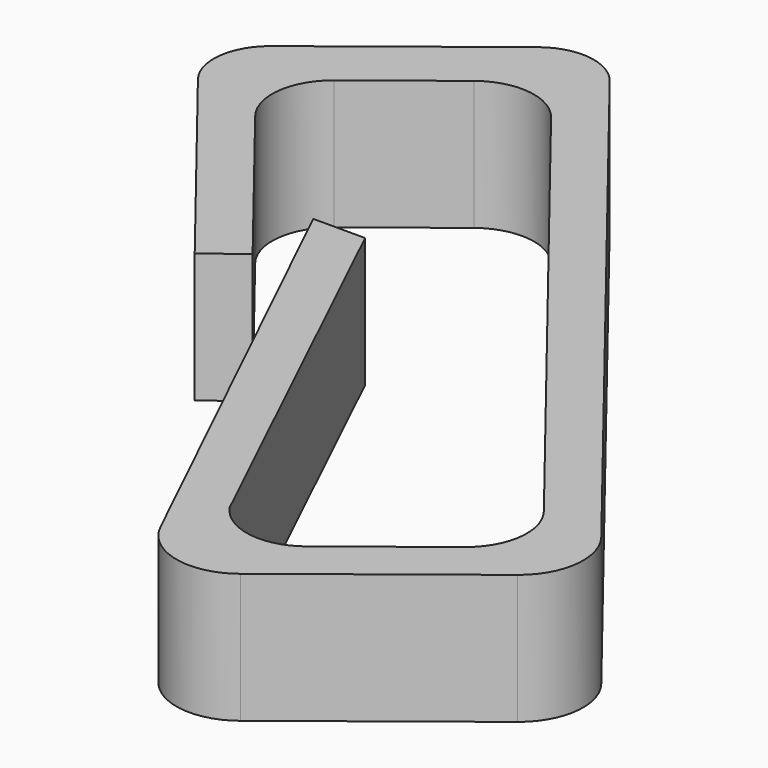
from build123d import *

# Parameters (mm, degrees)
F1_DEPTH = 12.7


with BuildPart() as f1:
    # F0 (on Top) → F1 (new body)
    with BuildSketch(Plane.XY):
        with BuildLine():
            Line((-3.488531, -2.742514), (0, 0))
            Line((0, 0), (-14.133346, 17.977894))
            ThreePointArc((-14.133346, 17.977894), (-15.368803, 22.381224), (-13.128779, 26.368448))
            Line((-13.128779, 26.368448), (-4.69756, 32.996662))
            ThreePointArc((-4.69756, 32.996662), (-0.294231, 34.23212), (3.692994, 31.992096))
            Line((3.692994, 31.992096), (44.11012, -19.419284))
            ThreePointArc((44.11012, -19.419284), (45.345578, -23.822613), (43.105554, -27.809838))
            Line((43.105554, -27.809838), (33.561242, -35.313111))
            ThreePointArc((33.561242, -35.313111), (28.931121, -36.516997), (24.901706, -33.938009))
            Line((24.901706, -33.938009), (5.091058, 7.437413))
            Line((5.091058, 7.437413), (0, 7.437413))
            Line((0, 7.437413), (22.79999, -39.810344))
            ThreePointArc((22.79999, -39.810344), (27.081738, -43.232908), (32.431902, -42.039987))
            Line((32.431902, -42.039987), (49.13659, -28.907573))
            ThreePointArc((49.13659, -28.907573), (51.517046, -24.67038), (50.204135, -19.990996))
            Line((50.204135, -19.990996), (3.428142, 39.508986))
            ThreePointArc((3.428142, 39.508986), (-0.273129, 41.588362), (-4.360664, 40.441508))
            Line((-4.360664, 40.441508), (-20.442738, 27.798564))
            ThreePointArc((-20.442738, 27.798564), (-22.522114, 24.097292), (-21.37526, 20.009757))
            Line((-21.37526, 20.009757), (-3.488531, -2.742514))
        make_face()
    extrude(amount=F1_DEPTH)


solid = f1.part
